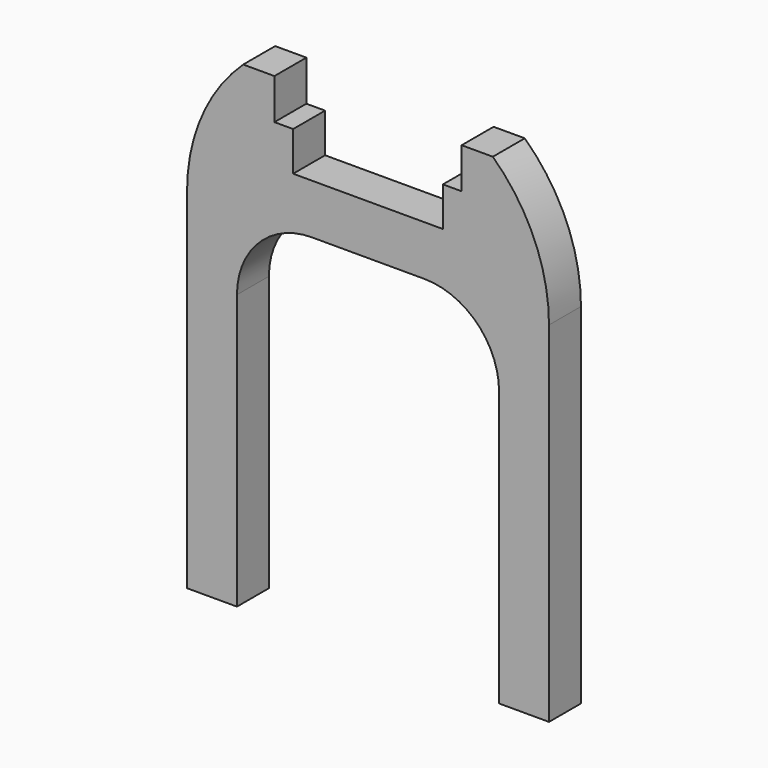
from build123d import *

# Parameters (mm, degrees)
F2_DEPTH = 3.2


with BuildPart() as f2:
    # F1 (on Front) → F2 (new body, symmetric)
    with BuildSketch(Plane.XZ):
        with BuildLine():
            Line((12, 6.3), (12, 0))
            Line((12, 0), (-12, 0))
            Line((-12, 0), (-12, 6.3))
            Line((-12, 6.3), (-15, 6.3))
            Line((-15, 6.3), (-15, 12.8))
            Line((-15, 12.8), (-20, 12.8))
            ThreePointArc((-20, 12.8), (-26.653524819, 3.3318136236), (-29, -8))
            Line((-29, -8), (-29, -64))
            Line((-29, -64), (-21, -64))
            Line((-21, -64), (-21, -20))
            ThreePointArc((-21, -20), (-17.4852813742, -11.5147186258), (-9, -8))
            Line((-9, -8), (9, -8))
            ThreePointArc((9, -8), (17.4852813742, -11.5147186258), (21, -20))
            Line((21, -20), (21, -64))
            Line((21, -64), (29, -64))
            Line((29, -64), (29, -8))
            ThreePointArc((29, -8), (26.653524819, 3.3318136236), (20, 12.8))
            Line((20, 12.8), (15, 12.8))
            Line((15, 12.8), (15, 6.3))
            Line((15, 6.3), (12, 6.3))
        make_face()
    extrude(amount=F2_DEPTH, both=True)


solid = f2.part
